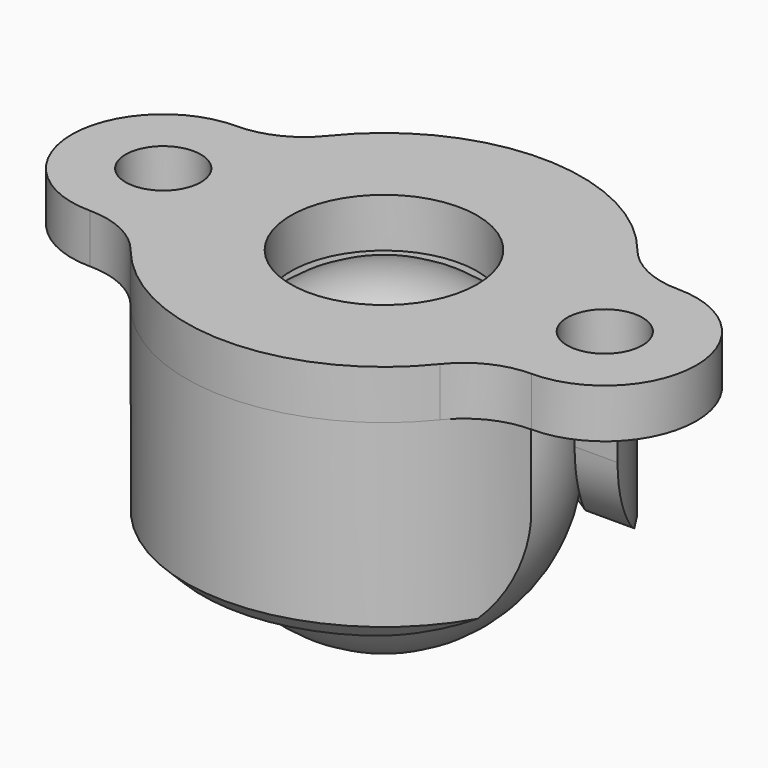
from build123d import *

# Parameters (mm, degrees)
PAD_DEPTH            = 1.5
SKETCH001_R          = 2.85
SKETCH001_R_2        = 1.15
POCKET_DEPTH         = 1.501
SKETCH002_R          = 6.05
PAD001_DEPTH         = 6
SKETCH003_R          = 4.8
POCKET001_DEPTH      = 6.001
CHAMFER_SIZE         = 0.5
POCKET002_DEPTH      = 9.551
POCKET002_DEPTH_BACK = -9.551


with BuildPart() as ballshell:
    # Sketch → Pad (new body)
    with BuildSketch(Plane.XY):
        with BuildLine():
            ThreePointArc((-6.75, 2.8), (-9.55, 0), (-6.75, -2.8))
            ThreePointArc((-4.72951, -3.772829), (-5.628753, -3.055873), (-6.75, -2.8))
            ThreePointArc((-4.72951, -3.772829), (0, -6.05), (4.72951, -3.772829))
            ThreePointArc((6.75, -2.8), (5.628753, -3.055873), (4.72951, -3.772829))
            ThreePointArc((6.75, -2.8), (9.55, 0), (6.75, 2.8))
            ThreePointArc((4.72951, 3.772829), (5.628753, 3.055873), (6.75, 2.8))
            ThreePointArc((4.72951, 3.772829), (0, 6.05), (-4.72951, 3.772829))
            ThreePointArc((-6.75, 2.8), (-5.628753, 3.055873), (-4.72951, 3.772829))
        make_face()
    extrude(amount=PAD_DEPTH)

    # Sketch001 → Pocket (cut, through all)
    with BuildSketch(Plane.XY):
        Circle(SKETCH001_R)
        with Locations((-6.75, 0)):
            Circle(SKETCH001_R_2)
        with Locations((6.75, 0)):
            Circle(SKETCH001_R_2)
    extrude(amount=POCKET_DEPTH, mode=Mode.SUBTRACT)

    # Sketch002 → Pad001 (join)
    with BuildSketch(Plane.XY):
        Circle(SKETCH002_R)
    extrude(amount=-PAD001_DEPTH)

    # Sketch003 → Pocket001 (cut, through all)
    with BuildSketch(Plane.XY):
        Circle(SKETCH003_R)
    extrude(amount=-POCKET001_DEPTH, mode=Mode.SUBTRACT)

    # Chamfer
    chamfer_edges = [ballshell.edges().sort_by_distance(p)[0] for p in [
        (-6.05, 0, -6),
    ]]
    chamfer(chamfer_edges, length=CHAMFER_SIZE)

    # Sketch004 → Pocket002 (cut, two sides)
    with BuildSketch(Plane.YZ) as pocket002_sk:
        with BuildLine():
            Line((-1.65, 0), (1.65, 0))
            Line((1.65, 0), (1.65, -3))
            ThreePointArc((1.65, -3), (2.52868, -5.12132), (4.65, -6))
            Line((4.65, -6), (10.65, -6))
            Line((10.65, -6), (10.65, -12))
            Line((-10.65, -12), (10.65, -12))
            Line((-10.65, -6), (-10.65, -12))
            Line((-4.65, -6), (-10.65, -6))
            ThreePointArc((-4.65, -6), (-2.52868, -5.12132), (-1.65, -3))
            Line((-1.65, 0), (-1.65, -3))
        make_face()
    extrude(amount=-POCKET002_DEPTH, mode=Mode.SUBTRACT)
    extrude(pocket002_sk.sketch, amount=-POCKET002_DEPTH_BACK, mode=Mode.SUBTRACT)


with BuildPart() as ballbearing:
    # Sketch005 → Revolution (revolve)
    with BuildSketch(Plane.YZ):
        with BuildLine():
            Line((0, -4.7625), (0, 4.7625))
            ThreePointArc((0, -4.7625), (4.7625, 0), (0, 4.7625))
        make_face()
    revolve(axis=Axis((0, 0, 0), (0, 0, 1)))


with BuildPart() as ballbearing_1:
    # Body001 placement: moved
    add(ballbearing.part.moved(Location((0, 0, -4))))


solid = Compound([ballshell.part, ballbearing_1.part])
